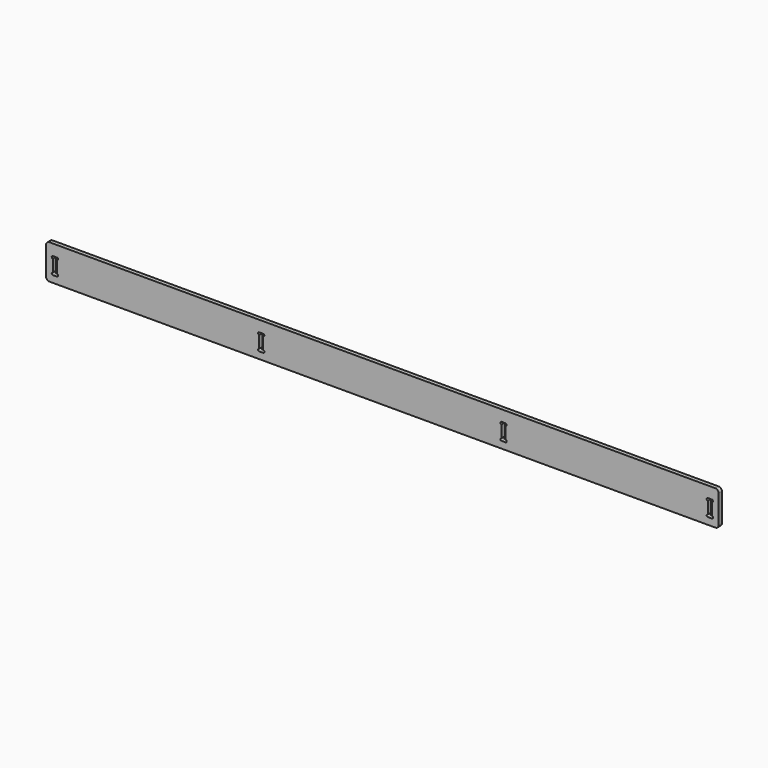
from build123d import *

# Parameters (mm, degrees)
F1_DEPTH = 12


with BuildPart() as f1:
    # F0 (on Front) → F1 (new body)
    with BuildSketch(Plane.XZ):
        with BuildLine():
            Line((1048.804035, 27.381052), (-931.195965, 27.381052))
            ThreePointArc((-931.195965, 27.381052), (-938.267033, 24.45212), (-941.195965, 17.381052))
            Line((-941.195965, 17.381052), (-941.195965, -65.696588))
            ThreePointArc((-941.195965, -65.696588), (-938.267033, -72.767655), (-931.195965, -75.696588))
            Line((-931.195965, -75.696588), (-920.907405, -75.696588))
            Line((-920.907405, -75.696588), (-902.907405, -75.696588))
            Line((-902.907405, -75.696588), (1048.804035, -75.696588))
            ThreePointArc((1048.804035, -75.696588), (1055.875103, -72.767655), (1058.804035, -65.696588))
            Line((1058.804035, -65.696588), (1058.804035, 17.381052))
            ThreePointArc((1058.804035, 17.381052), (1055.875103, 24.45212), (1048.804035, 27.381052))
        make_face()
        with BuildLine():
            ThreePointArc((-920.907405, -12.408028), (-924.407405, -8.908028), (-920.907405, -5.408028))
            Line((-920.907405, -5.408028), (-908.907405, -5.408028))
            ThreePointArc((-908.907405, -5.408028), (-905.407405, -8.908028), (-908.907405, -12.408028))
            Line((-908.907405, -12.408028), (-908.907405, -48.408028))
            ThreePointArc((-908.907405, -48.408028), (-905.407405, -51.908028), (-908.907405, -55.408028))
            Line((-908.907405, -55.408028), (-920.907405, -55.408028))
            ThreePointArc((-920.907405, -55.408028), (-924.407405, -51.908028), (-920.907405, -48.408028))
            Line((-920.907405, -48.408028), (-920.907405, -12.408028))
        make_face(mode=Mode.SUBTRACT)
        with BuildLine():
            Line((-295.484525, -12.408028), (-295.484525, -48.408028))
            ThreePointArc((-295.484525, -48.408028), (-291.984525, -51.908028), (-295.484525, -55.408028))
            Line((-295.484525, -55.408028), (-307.484525, -55.408028))
            ThreePointArc((-307.484525, -55.408028), (-310.984525, -51.908028), (-307.484525, -48.408028))
            Line((-307.484525, -48.408028), (-307.484525, -12.408028))
            ThreePointArc((-307.484525, -12.408028), (-310.984525, -8.908028), (-307.484525, -5.408028))
            Line((-307.484525, -5.408028), (-295.484525, -5.408028))
            ThreePointArc((-295.484525, -5.408028), (-291.984525, -8.908028), (-295.484525, -12.408028))
        make_face(mode=Mode.SUBTRACT)
        with BuildLine():
            ThreePointArc((413.092595, -55.408028), (409.592595, -51.908028), (413.092595, -48.408028))
            Line((413.092595, -48.408028), (413.092595, -12.408028))
            ThreePointArc((413.092595, -12.408028), (409.592595, -8.908028), (413.092595, -5.408028))
            Line((413.092595, -5.408028), (425.092595, -5.408028))
            ThreePointArc((425.092595, -5.408028), (428.592595, -8.908028), (425.092595, -12.408028))
            Line((425.092595, -12.408028), (425.092595, -48.408028))
            ThreePointArc((425.092595, -48.408028), (428.592595, -51.908028), (425.092595, -55.408028))
            Line((425.092595, -55.408028), (413.092595, -55.408028))
        make_face(mode=Mode.SUBTRACT)
        with BuildLine():
            ThreePointArc((1038.515475, -5.408028), (1042.015475, -8.908028), (1038.515475, -12.408028))
            Line((1038.515475, -12.408028), (1038.515475, -48.408028))
            ThreePointArc((1038.515475, -48.408028), (1042.015475, -51.908028), (1038.515475, -55.408028))
            Line((1038.515475, -55.408028), (1026.515475, -55.408028))
            ThreePointArc((1026.515475, -55.408028), (1023.015475, -51.908028), (1026.515475, -48.408028))
            Line((1026.515475, -48.408028), (1026.515475, -12.408028))
            ThreePointArc((1026.515475, -12.408028), (1023.015475, -8.908028), (1026.515475, -5.408028))
            Line((1026.515475, -5.408028), (1038.515475, -5.408028))
        make_face(mode=Mode.SUBTRACT)
    extrude(amount=F1_DEPTH)


solid = f1.part
